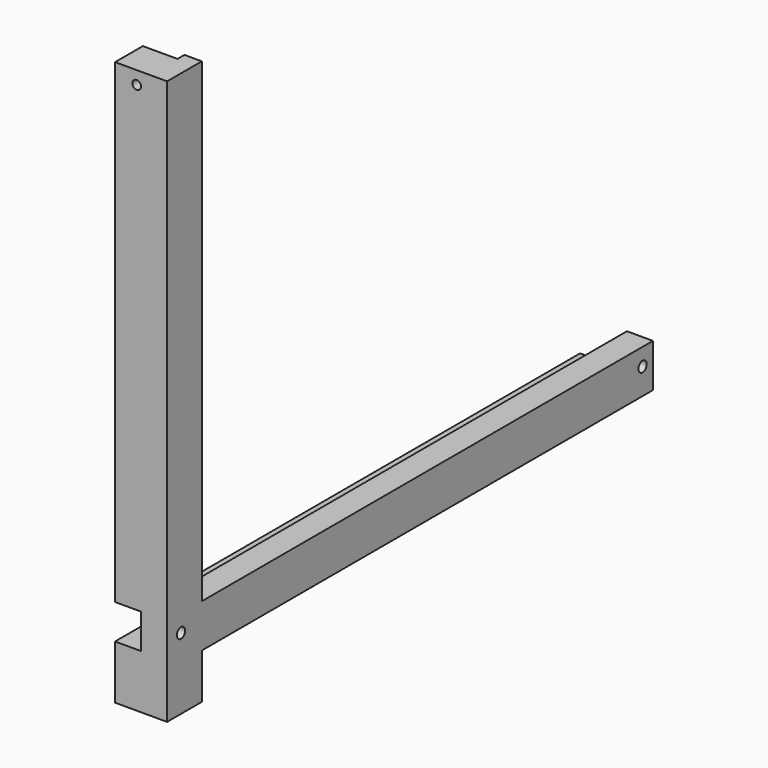
from build123d import *

# Parameters (mm, degrees)
F1_DEPTH = 60
F3_DEPTH = 30
F5_D     = 12
F7_DEPTH = 10
F9_D     = 10


with BuildPart() as f1:
    # F0 (on Right) → F1 (new body)
    with BuildSketch(Plane.YZ):
        Polygon((-296.18248, 422.540385), (-346.18248, 422.540385), (-346.18248, -227.459615), (-296.18248, -227.459615), (-296.18248, -175.331955), (353.81752, -175.331955), (353.81752, -125.331955), (-296.18248, -125.331955), align=None)
    extrude(amount=F1_DEPTH)

    # F2 (on face) → F3 (cut)
    with BuildSketch(Plane(origin=(0, 0, 0), x_dir=(0, -1, 0), z_dir=(-1, 0, 0))):
        Polygon((346.18248, -125.331955), (-353.81752, -125.331955), (-353.81752, -165.331955), (-323.81752, -165.331955), (-323.81752, -145.331955), (306.18248, -145.331955), (306.18248, -165.331955), (346.18248, -165.331955), align=None)
    extrude(amount=-F3_DEPTH, mode=Mode.SUBTRACT)

    # F5 (through all)
    with Locations(Plane(origin=(30, 0, 0), x_dir=(0, -1, 0), z_dir=(-1, 0, 0))):
        with Locations((-338.81752, -145.331955), (326.18248, -145.331955)):
            Hole(F5_D / 2)

    # F6 (on face) → F7 (cut)
    with BuildSketch(Plane(origin=(0, -296.18248, 0), x_dir=(-1, 0, 0), z_dir=(0, 1, 0))):
        Polygon((-30, 364.668045), (-30, -125.331955), (-20, -125.331955), (-20, 364.668045), (0, 364.668045), (0, 374.668045), (0, 422.540385), (-40, 422.540385), (-40, 364.668045), align=None)
    extrude(amount=-F7_DEPTH, mode=Mode.SUBTRACT)

    # F9 (through all)
    with Locations(Plane(origin=(0, -306.18248, 0), x_dir=(-1, 0, 0), z_dir=(0, 1, 0))):
        with Locations((-25, 407.540385)):
            Hole(F9_D / 2)


solid = f1.part
